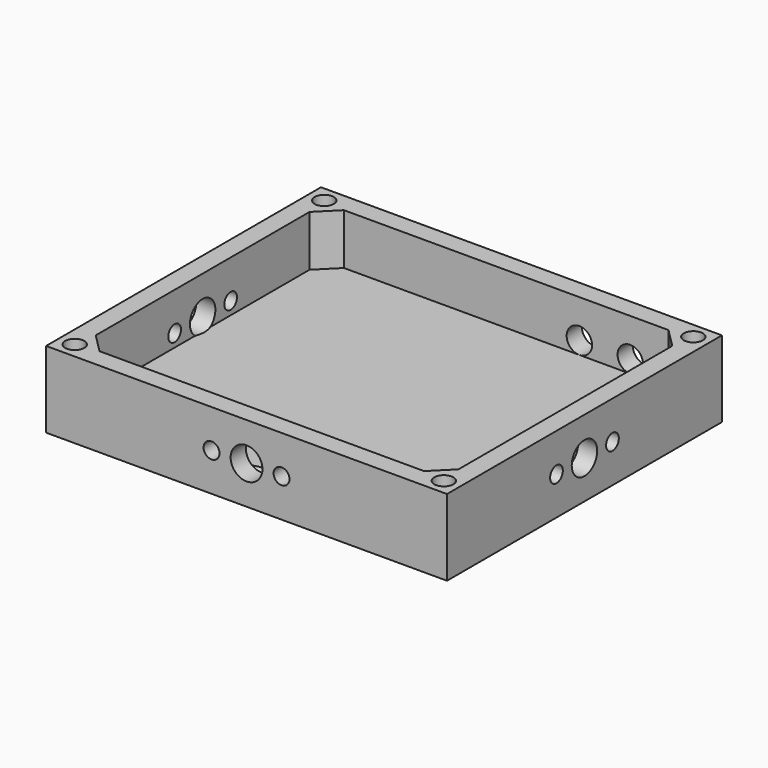
from build123d import *

# Parameters (mm, degrees)
F0_W      = 63
F0_H      = 54
F1_DEPTH  = 4
F2_W      = 63
F2_H      = 54
F3_DEPTH  = 8
F6_R      = 2
F7_DEPTH  = 3
F8_D      = 2.5
F8_DEPTH  = 4.5
F8_TIP    = 0.7510757738
F10_D     = 2.5
F10_DEPTH = 4.5
F10_TIP   = 0.7510757738
F12_D     = 5
F12_DEPTH = 3
F12_TIP   = 1.5021515476
F14_D     = 5
F14_DEPTH = 3
F14_TIP   = 1.5021515476
F15_D     = 2.5
F15_DEPTH = 4.5
F15_TIP   = 0.7510757738
F17_D     = 5
F17_DEPTH = 3
F17_TIP   = 1.5021515476
F18_R     = 1.5
F19_DEPTH = 12


with BuildPart() as f1:
    # F0 (on Top) → F1 (new body)
    with BuildSketch(Plane.XY):
        with Locations((31.5, 27)):
            Rectangle(F0_W, F0_H)
    extrude(amount=F1_DEPTH)

    # F2 (on face) → F3 (join)
    with BuildSketch(Plane.XY.offset(4)):
        with Locations((31.5, 27)):
            Rectangle(F2_W, F2_H)
        Polygon((3, 48), (6, 51), (57, 51), (60, 48), (60, 6), (57, 3), (6, 3), (3, 6), align=None, mode=Mode.SUBTRACT)
    extrude(amount=F3_DEPTH)

    # F6 (on face) → F7 (cut)
    with BuildSketch(Plane(origin=(0, 54, 0), x_dir=(-1, 0, 0), z_dir=(0, 1, 0))):
        with Locations((-43, 6)):
            Circle(F6_R)
        with Locations((-51, 6)):
            Circle(F6_R)
    extrude(amount=-F7_DEPTH, mode=Mode.SUBTRACT)

    # F8
    with Locations(Plane.XZ):
        with Locations((26, 6), (37, 6)):
            Hole(F8_D / 2, depth=F8_DEPTH)
            with Locations((0, 0, -(F8_DEPTH + F8_TIP / 2))):  # 118° drill point
                Cone(0, F8_D / 2, F8_TIP, mode=Mode.SUBTRACT)

    # F10
    with Locations(Plane(origin=(0, 0, 0), x_dir=(0, -1, 0), z_dir=(-1, 0, 0))):
        with Locations((-32.5, 6), (-21.5, 6)):
            Hole(F10_D / 2, depth=F10_DEPTH)
            with Locations((0, 0, -(F10_DEPTH + F10_TIP / 2))):  # 118° drill point
                Cone(0, F10_D / 2, F10_TIP, mode=Mode.SUBTRACT)

    # F12
    with Locations(Plane(origin=(0, 0, 0), x_dir=(0, -1, 0), z_dir=(-1, 0, 0))):
        with Locations((-27, 6)):
            Hole(F12_D / 2, depth=F12_DEPTH)
            with Locations((0, 0, -(F12_DEPTH + F12_TIP / 2))):  # 118° drill point
                Cone(0, F12_D / 2, F12_TIP, mode=Mode.SUBTRACT)

    # F14
    with Locations(Plane.XZ):
        with Locations((31.5, 6)):
            Hole(F14_D / 2, depth=F14_DEPTH)
            with Locations((0, 0, -(F14_DEPTH + F14_TIP / 2))):  # 118° drill point
                Cone(0, F14_D / 2, F14_TIP, mode=Mode.SUBTRACT)

    # F15
    with Locations(Plane.YZ.offset(63)):
        with Locations((21.5, 6), (32.5, 6)):
            Hole(F15_D / 2, depth=F15_DEPTH)
            with Locations((0, 0, -(F15_DEPTH + F15_TIP / 2))):  # 118° drill point
                Cone(0, F15_D / 2, F15_TIP, mode=Mode.SUBTRACT)

    # F17
    with Locations(Plane.YZ.offset(63)):
        with Locations((27, 6)):
            Hole(F17_D / 2, depth=F17_DEPTH)
            with Locations((0, 0, -(F17_DEPTH + F17_TIP / 2))):  # 118° drill point
                Cone(0, F17_D / 2, F17_TIP, mode=Mode.SUBTRACT)

    # F18 (on face) → F19 (cut)
    with BuildSketch(Plane.XY.offset(12)):
        with Locations((2.5, 51.5)):
            Circle(F18_R)
        with Locations((60.5, 51.5)):
            Circle(F18_R)
        with Locations((2.5, 2.5)):
            Circle(F18_R)
        with Locations((60.5, 2.5)):
            Circle(F18_R)
    extrude(amount=-F19_DEPTH, mode=Mode.SUBTRACT)


solid = f1.part
